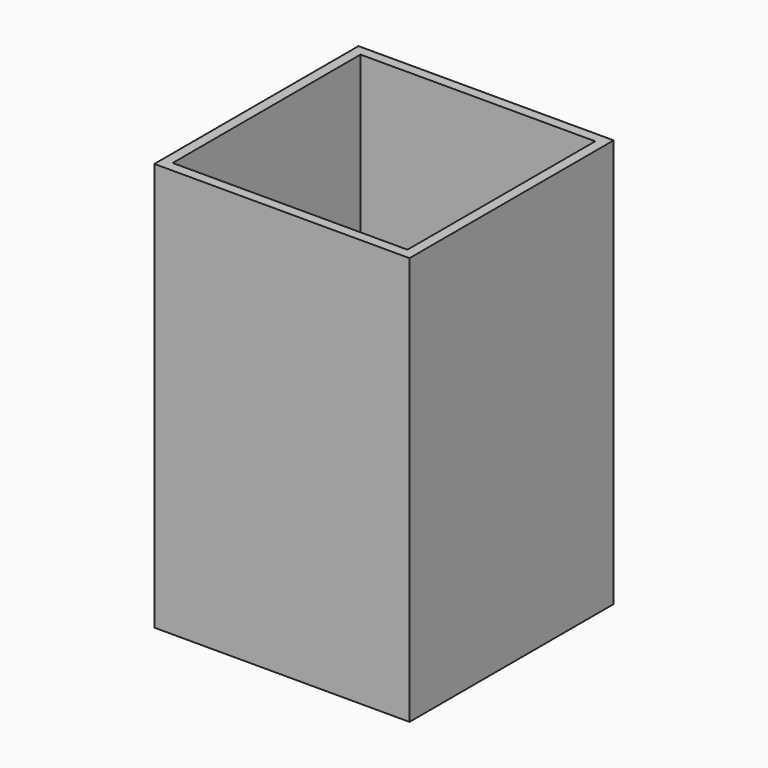
from build123d import *

# Parameters (mm, degrees)
BOX001_W     = 46
BOX001_H     = 46
BOX001_DEPTH = 80
BOX_W        = 50
BOX_H        = 50
BOX_DEPTH    = 80


with BuildPart() as obj1:
    # Box001 → Box001 (new body)
    with BuildSketch(Plane(origin=(2, 2, 0), x_dir=(1, 0, 0), z_dir=(0, 0, 1))):
        with Locations((23, 23)):
            Rectangle(BOX001_W, BOX001_H)
    extrude(amount=BOX001_DEPTH)


with BuildPart() as obj2:
    # Box → Box (new body)
    with BuildSketch(Plane.XY):
        with Locations((25, 25)):
            Rectangle(BOX_W, BOX_H)
    extrude(amount=BOX_DEPTH)

    # Cut: cut obj1
    add(obj1.part, mode=Mode.SUBTRACT)


solid = obj2.part
